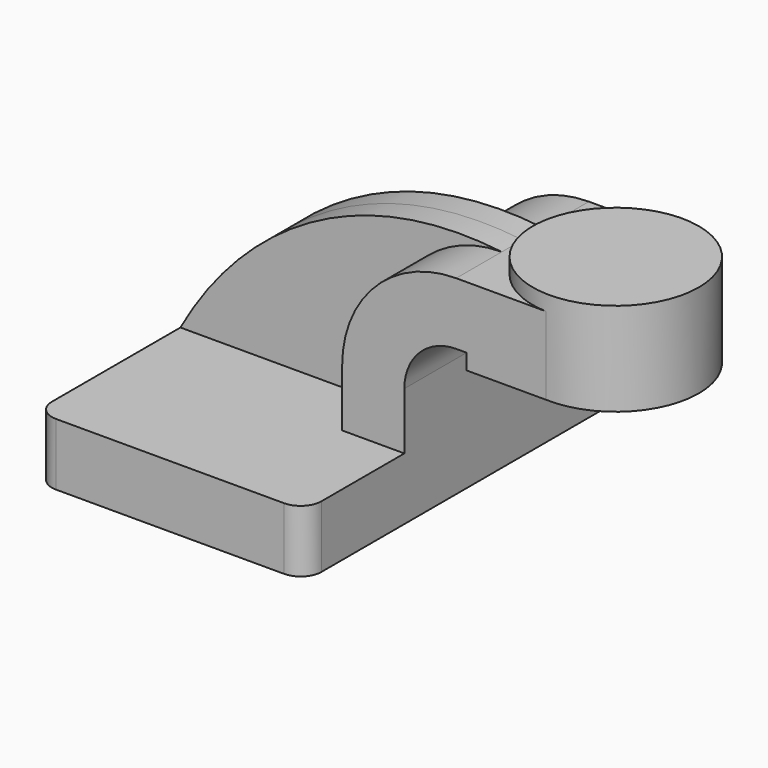
from build123d import *

# Parameters (mm, degrees)
F1_DEPTH = 25
F2_DEPTH = 10
F3_DEPTH = 3.125
F5_R     = 2.5


with BuildPart() as f1:
    # F0 (on Front) → F1 (new body, symmetric)
    with BuildSketch(Plane.XZ):
        Polygon((8.75, 3.75), (-16.25, 3.75), (-16.25, -3.75), (16.25, -3.75), (16.25, 3.75), align=None)
    extrude(amount=F1_DEPTH, both=True)

    # F0 (on Front) → F2 (join, symmetric)
    with BuildSketch(Plane.XZ):
        with BuildLine():
            Line((8.75, 10.63), (8.75, 3.75))
            Line((8.75, 3.75), (16.25, 3.75))
            Line((16.25, 3.75), (16.25, 10.63))
            ThreePointArc((16.25, 10.63), (18.080583, 15.049417), (22.5, 16.88))
            Line((22.5, 16.88), (23.75, 16.88))
            Line((23.75, 16.88), (23.75, 24.38))
            Line((23.75, 24.38), (22.5, 24.38))
            ThreePointArc((22.5, 24.38), (12.777282, 20.352718), (8.75, 10.63))
        make_face()
        Polygon((33.742055, 24.38), (23.75, 24.38), (23.75, 16.88), (23.75, 15), (33.742055, 15), align=None)
    extrude(amount=F2_DEPTH, both=True)

    # F0 (on Front) → F3 (join, symmetric)
    with BuildSketch(Plane.XZ):
        with BuildLine():
            add(Edge.make_bspline(
                [(-16.25, 3.75), (-9.499033, 16.007805), (3.585062, 26.59969), (22.5, 24.38)],
                knots=[0, 0, 0, 0, 43.899424, 43.899424, 43.899424, 43.899424], degree=3))
            Line((-16.25, 3.75), (8.75, 3.75))
            Line((8.75, 3.75), (8.75, 10.63))
            ThreePointArc((8.75, 10.63), (12.777282, 20.352718), (22.5, 24.38))
        make_face()
    extrude(amount=F3_DEPTH, both=True)

    # F0 (on Front) → F4 (revolve)
    with BuildSketch(Plane.XZ):
        Polygon((33.742055, 26.25), (33.742055, 24.38), (33.742055, 15), (43.75, 15), (43.75, 26.25), align=None)
    revolve(axis=Axis((33.742055, 0, 20.625), (0, 0, -1)))

    # F5
    f5_edges = [f1.edges().sort_by_distance(p)[0] for p in [
        (16.25, 25, 0),
        (-16.25, 25, 0),
        (-16.25, -25, 0),
        (16.25, -25, 0),
    ]]
    fillet(f5_edges, radius=F5_R)


solid = f1.part
